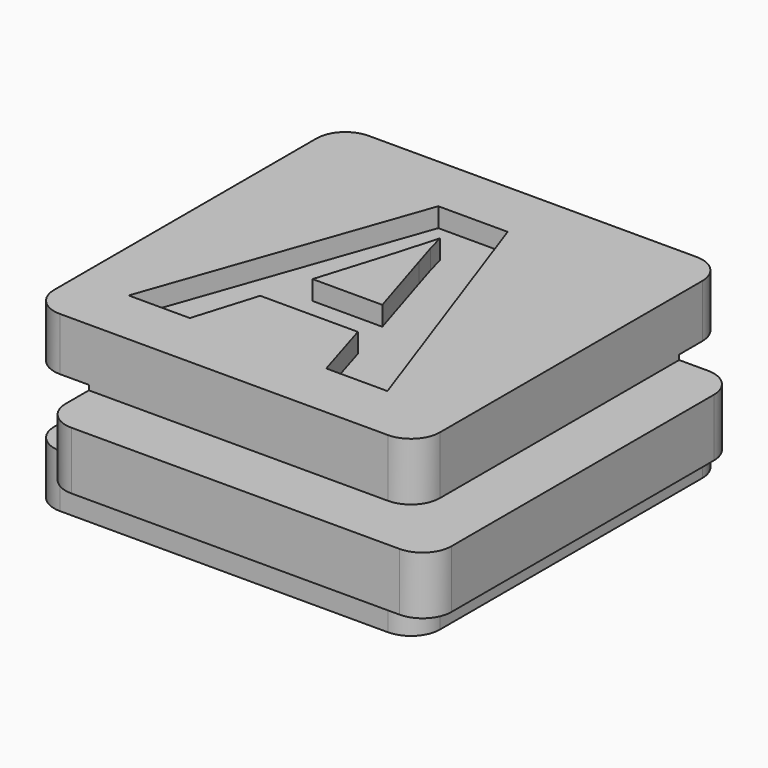
from build123d import *

# Parameters (mm, degrees)
F0_W     = 14
F0_H     = 3
F0_W_2   = 3
F1_DEPTH = 20
F2_DEPTH = 3
F3_W     = 3
F3_H     = 3
F4_DEPTH = 100
F5_W     = 3
F5_H     = 3.5
F6_DEPTH = 100
F7_R     = 1.5
F9_DEPTH = 1


with BuildPart() as f1:
    # F0 (on Front) → F1 (new body)
    with BuildSketch(Plane.XZ):
        Polygon((10, 1.5), (10, 4.5), (-10, 4.5), (-10, 1.5), (-7, 1.5), (7, 1.5), align=None)
        Rectangle(F0_W, F0_H)
        with Locations((11.5, 0)):
            Rectangle(F0_W_2, F0_H)
        with Locations((8.5, 0)):
            Rectangle(F0_W_2, F0_H)
        with Locations((-8.5, 0)):
            Rectangle(F0_W_2, F0_H)
        Polygon((10, -4.5), (10, -1.5), (7, -1.5), (-7, -1.5), (-10, -1.5), (-10, -4.5), align=None)
    extrude(amount=-F1_DEPTH)

    # F0 (on Front) → F2 (join)
    with BuildSketch(Plane.XZ):
        with Locations((-8.5, 0)):
            Rectangle(F0_W_2, F0_H)
        Rectangle(F0_W, F0_H)
        with Locations((8.5, 0)):
            Rectangle(F0_W_2, F0_H)
        with Locations((11.5, 0)):
            Rectangle(F0_W_2, F0_H)
    extrude(amount=F2_DEPTH)

    # F3 (on face) → F4 (cut)
    with BuildSketch(Plane.YZ.offset(13)):
        Polygon((23, -1.75), (23, 1.75), (17, 1.75), (17, 1.5), (20, 1.5), (20, -1.5), (17, -1.5), (17, -1.75), align=None)
        with Locations((18.5, 0)):
            Rectangle(F3_W, F3_H)
    extrude(amount=-F4_DEPTH, mode=Mode.SUBTRACT)

    # F5 (on face) → F6 (cut)
    with BuildSketch(Plane(origin=(0, 17, 0), x_dir=(-1, 0, 0), z_dir=(0, 1, 0))):
        with Locations((11.5, 0)):
            Rectangle(F5_W, F5_H)
        with Locations((8.5, 0)):
            Rectangle(F5_W, F5_H)
    extrude(amount=-F6_DEPTH, mode=Mode.SUBTRACT)

    # F7
    f7_edges = [f1.edges().sort_by_distance(p)[0] for p in [
        (-7, -3, 0),
        (13, -3, 0),
        (10, 0, 3),
        (10, 0, -3),
        (-10, 0, -3.125),
        (-10, 0, 3.125),
        (-7, 17, 0),
        (-10, 20, 3.125),
        (-10, 20, -3.125),
        (13, 17, 0),
        (10, 20, 3.125),
        (10, 20, -3.125),
    ]]
    fillet(f7_edges, radius=F7_R)

    # F8 (on face) → F9 (cut)
    with BuildSketch(Plane.XY.offset(4.5)):
        with BuildLine():
            Line((0, 12.6293993567), (0, 16.9392361111))
            Line((0, 16.9392361111), (-2.4381510417, 16.9392361111))
            Line((-2.4381510417, 16.9392361111), (-7.3387586806, 3))
            Line((-7.3387586806, 3), (-4.1668836806, 3))
            Line((-4.1668836806, 3), (-3.1612413194, 6.3055555556))
            Line((-3.1612413194, 6.3055555556), (0, 6.3055555556))
            Line((0, 6.3055555556), (0, 8.7725694444))
            Line((0, 8.7725694444), (-2.419921875, 8.7725694444))
            add(Edge.make_bspline(
                [(-0.6273871528, 14.7821180556), (-0.9403211806, 13.5668402778), (-2.419921875, 8.7725694444)],
                knots=[0, 0, 0, 1, 1, 1], degree=2))
            add(Edge.make_bspline(
                [(-0.3752170139, 13.8524305556), (-0.5514322917, 14.4418402778), (-0.6273871528, 14.7821180556)],
                knots=[0, 0, 0, 1, 1, 1], degree=2))
            add(Edge.make_bspline(
                [(0, 12.6293993567), (-0.2996453455, 13.5996563543), (-0.3752170139, 13.8524305556)],
                knots=[0.5711400886, 0.5711400886, 0.5711400886, 1, 1, 1], degree=2))
        make_face()
        with BuildLine():
            Line((1.1590711806, 16.9392361111), (0, 16.9392361111))
            Line((0, 16.9392361111), (0, 12.6293993567))
            add(Edge.make_bspline(
                [(1.1955295139, 8.7725694444), (0.3990568122, 11.3372462484), (0, 12.6293993567)],
                knots=[0, 0, 0, 0.5711400886, 0.5711400886, 0.5711400886], degree=2))
            Line((1.1955295139, 8.7725694444), (0, 8.7725694444))
            Line((0, 8.7725694444), (0, 6.3055555556))
            Line((0, 6.3055555556), (1.900390625, 6.3055555556))
            Line((1.900390625, 6.3055555556), (2.9060329861, 3))
            Line((2.9060329861, 3), (6.0779079861, 3))
            Line((6.0779079861, 3), (1.1590711806, 16.9392361111))
        make_face()
    extrude(amount=-F9_DEPTH, mode=Mode.SUBTRACT)


solid = f1.part
